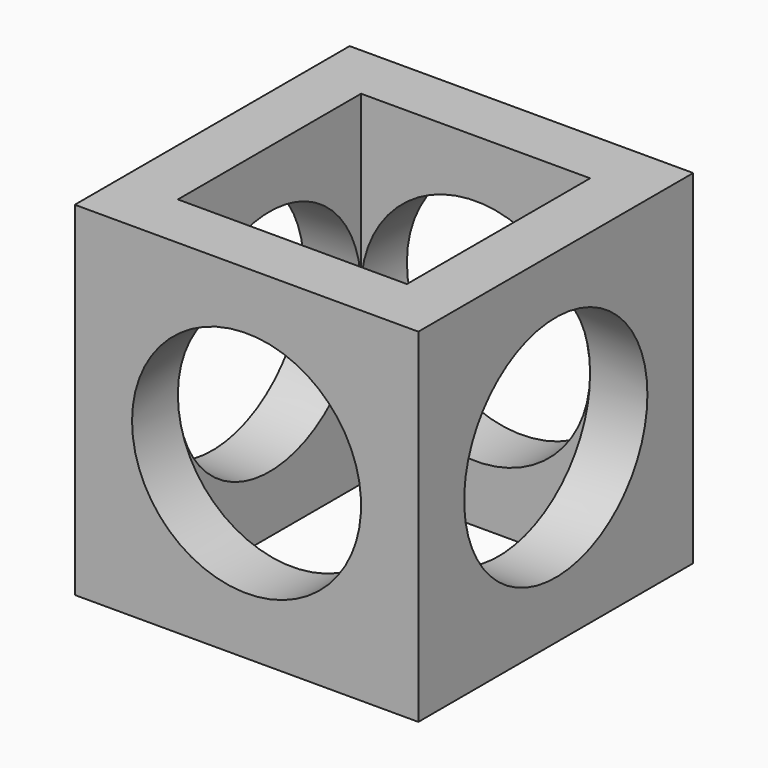
from build123d import *

# Parameters (mm, degrees)
F0_W     = 30
F0_H     = 30
F1_DEPTH = 15
F2_W     = 20
F2_H     = 20
F3_DEPTH = 30
F4_R     = 10
F5_DEPTH = 30
F6_R     = 10
F7_DEPTH = 30


with BuildPart() as f1:
    # F0 (on Top) → F1 (new body, symmetric)
    with BuildSketch(Plane.XY):
        Rectangle(F0_W, F0_H)
    extrude(amount=F1_DEPTH, both=True)

    # F2 (on face) → F3 (cut)
    with BuildSketch(Plane.XY.offset(15)):
        Rectangle(F2_W, F2_H)
    extrude(amount=-F3_DEPTH, mode=Mode.SUBTRACT)

    # F4 (on face) → F5 (cut)
    with BuildSketch(Plane(origin=(0, 15, 0), x_dir=(-1, 0, 0), z_dir=(0, 1, 0))):
        Circle(F4_R)
    extrude(amount=-F5_DEPTH, mode=Mode.SUBTRACT)

    # F6 (on face) → F7 (cut)
    with BuildSketch(Plane.YZ.offset(15)):
        Circle(F6_R)
    extrude(amount=-F7_DEPTH, mode=Mode.SUBTRACT)


solid = f1.part
